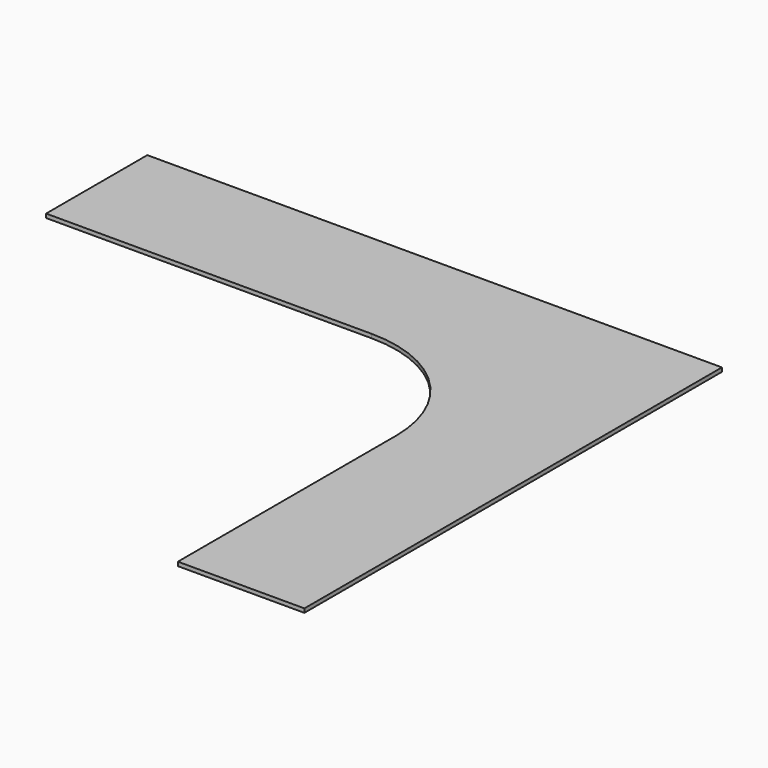
from build123d import *

# Parameters (mm, degrees)
F0_W     = 1568.45
F0_H     = 609.6
F0_W_2   = 609.6
F0_H_2   = 1314.45
F1_DEPTH = 19.05


with BuildPart() as f1:
    # F0 (on Top) → F1 (new body)
    with BuildSketch(Plane.XY):
        with Locations((-784.225, 895.35)):
            Rectangle(F0_W, F0_H)
        with BuildLine():
            ThreePointArc((0, 590.55), (417.58191, 417.58191), (590.55, 0))
            Line((590.55, 0), (1200.15, 0))
            Line((1200.15, 0), (1200.15, 1200.15))
            Line((1200.15, 1200.15), (0, 1200.15))
            Line((0, 1200.15), (0, 590.55))
        make_face()
        with Locations((895.35, -657.225)):
            Rectangle(F0_W_2, F0_H_2)
    extrude(amount=F1_DEPTH)


solid = f1.part
